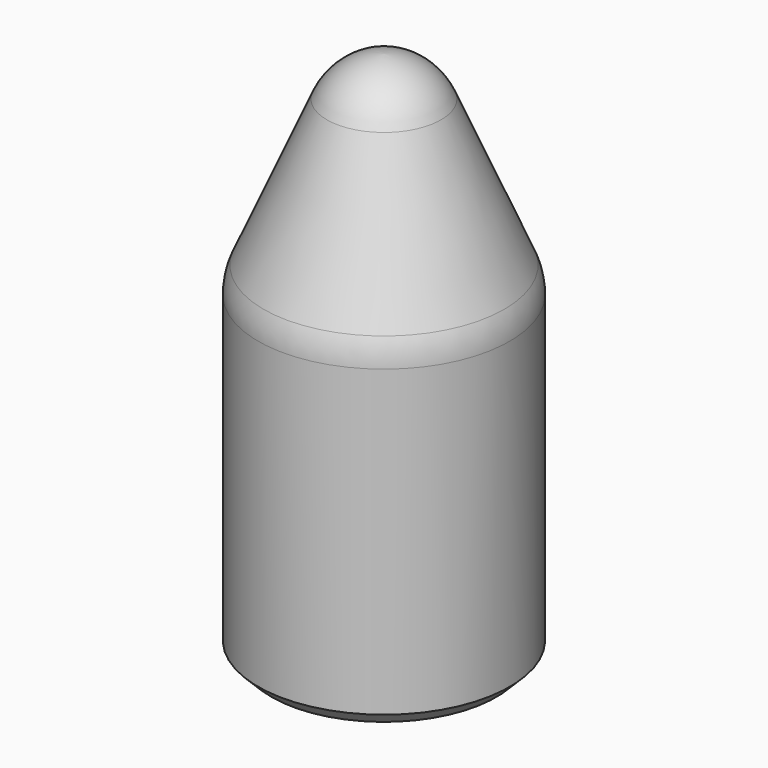
from build123d import *

# Parameters (mm, degrees)
F2_W    = 0.654929
F2_H    = 4
F5_SIZE = 1


with BuildPart() as f1:
    # F0 (on Front) → F1 (revolve)
    with BuildSketch(Plane.XZ):
        Polygon((-9.5, 0), (0, 0), (0, 1), (-9, 1), (-9, 23.963244), (-9.5, 23.963244), align=None)
    revolve(axis=Axis((0, 0, 7.5), (0, 0, 1)))

    # F5
    f5_edges = [f1.edges().sort_by_distance(p)[0] for p in [
        (9.5, 0, 0),
    ]]
    chamfer(f5_edges, length=F5_SIZE)


with BuildPart() as f3:
    # F0 (on Front) → F3 (revolve)
    with BuildSketch(Plane.XZ):
        with BuildLine():
            ThreePointArc((-9.087778, 25.951281), (-9.39586, 24.978406), (-9.5, 23.963244))
            Line((-9.5, 23.963244), (-9, 23.963244))
            Line((-9, 23.963244), (0, 23.963244))
            Line((0, 23.963244), (0, 39.992008))
            ThreePointArc((0, 39.992008), (-2.57854, 39.100477), (-4.305184, 36.988037))
            Line((-4.305184, 36.988037), (-9.087778, 25.951281))
        make_face()
    revolve(axis=Axis((0, 0, 27.5), (0, 0, -1)))

    # F2 (on face) → F4 (revolve)
    with BuildSketch(Plane.XZ):
        with Locations((-8.322536, 21.963244)):
            Rectangle(F2_W, F2_H)
    revolve(axis=Axis((0, 0, 7.5), (0, 0, 1)))


solid = Compound([f1.part, f3.part])
